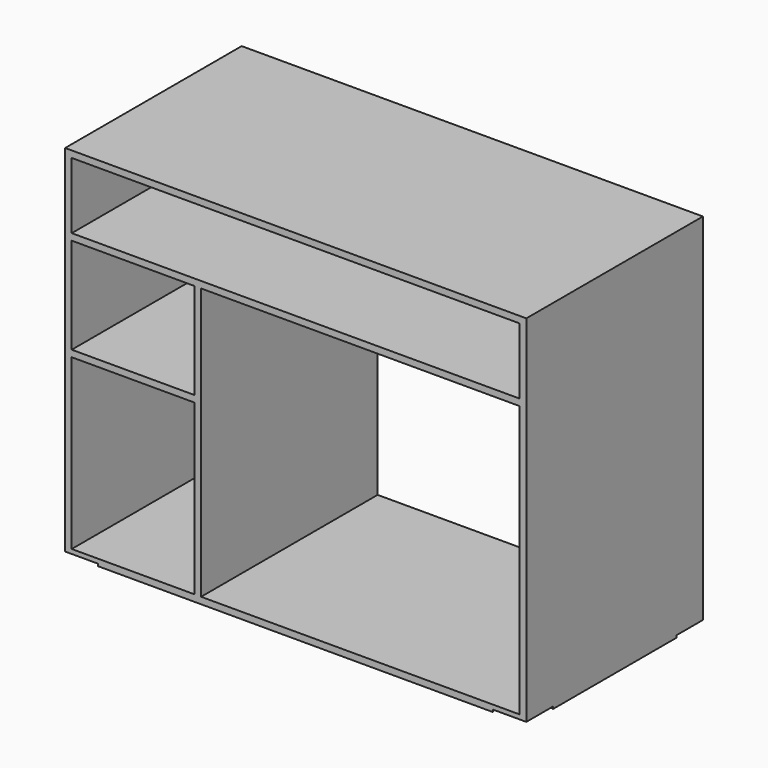
from build123d import *

# Parameters (mm, degrees)
F0_W     = 209
F0_H     = 162
F0_W_2   = 55.618028
F0_H_2   = 76.5
F0_H_3   = 43.5
F0_W_3   = 203
F0_H_4   = 30
F1_DEPTH = 100
F3_DEPTH = 1


with BuildPart() as f1:
    # F0 (on Front) → F1 (new body)
    with BuildSketch(Plane.XZ):
        with Locations((104.5, 81)):
            Rectangle(F0_W, F0_H)
        with Locations((30.809014, 41.25)):
            Rectangle(F0_W_2, F0_H_2, mode=Mode.SUBTRACT)
        Polygon((206, 126), (206, 3), (106, 3), (103, 3), (61.618028, 3), (61.618028, 126), (103, 126), (106, 126), align=None, mode=Mode.SUBTRACT)
        with Locations((30.809014, 104.25)):
            Rectangle(F0_W_2, F0_H_3, mode=Mode.SUBTRACT)
        with Locations((104.5, 144)):
            Rectangle(F0_W_3, F0_H_4, mode=Mode.SUBTRACT)
    extrude(amount=F1_DEPTH)

    # F2 (on face) → F3 (cut)
    with BuildSketch(Plane(origin=(0, 0, 0), x_dir=(1, 0, 0), z_dir=(0, 0, -1))):
        Polygon((104.5, 60.786082), (15, 100), (0, 100), (0, 85), (79.882353, 50), (0, 15), (0, 0), (15, 0), (104.5, 39.213918), (194, 0), (209, 0), (209, 15), (129.117647, 50), (209, 85), (209, 100), (194, 100), align=None)
    extrude(amount=-F3_DEPTH, mode=Mode.SUBTRACT)


solid = f1.part
